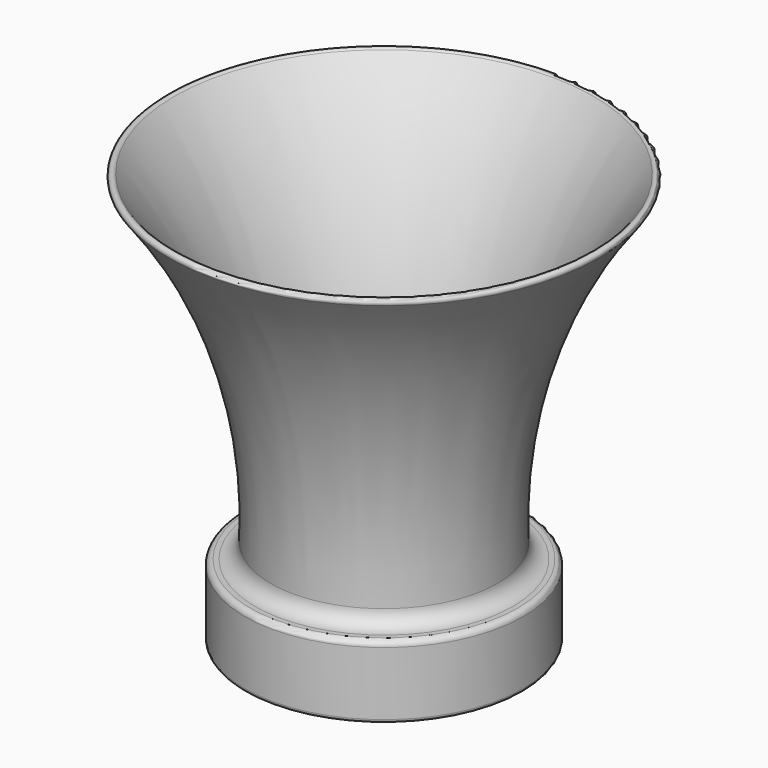
from build123d import *


with BuildPart() as f1:
    # F0 (on Front) → F1 (revolve)
    with BuildSketch(Plane.XZ):
        with BuildLine():
            Line((44.846875, 18.923), (44.846875, 1.190625))
            ThreePointArc((44.846875, 1.190625), (46.0375, 0), (47.228125, 1.190625))
            Line((47.228125, 1.190625), (47.228125, 22.70125))
            ThreePointArc((47.228125, 22.70125), (46.670163, 24.048288), (45.323125, 24.60625))
            Line((45.323125, 24.60625), (43.732395, 24.60625))
            ThreePointArc((43.732395, 24.60625), (40.044492, 26.086559), (38.403547, 29.705847))
            ThreePointArc((38.403547, 29.705847), (46.035762, 87.052969), (72.999533, 138.23791))
            ThreePointArc((72.999533, 138.23791), (72.790812, 139.908721), (71.12, 139.7))
            ThreePointArc((71.12, 139.7), (43.413377, 86.653209), (36.14462, 27.249639))
            ThreePointArc((36.14462, 27.249639), (37.808943, 23.679458), (41.469641, 22.225))
            Line((41.469641, 22.225), (41.544875, 22.225))
            ThreePointArc((41.544875, 22.225), (43.879742, 21.257867), (44.846875, 18.923))
        make_face()
    revolve(axis=Axis((0, 0, 37.16765), (0, 0, -1)))


solid = f1.part
